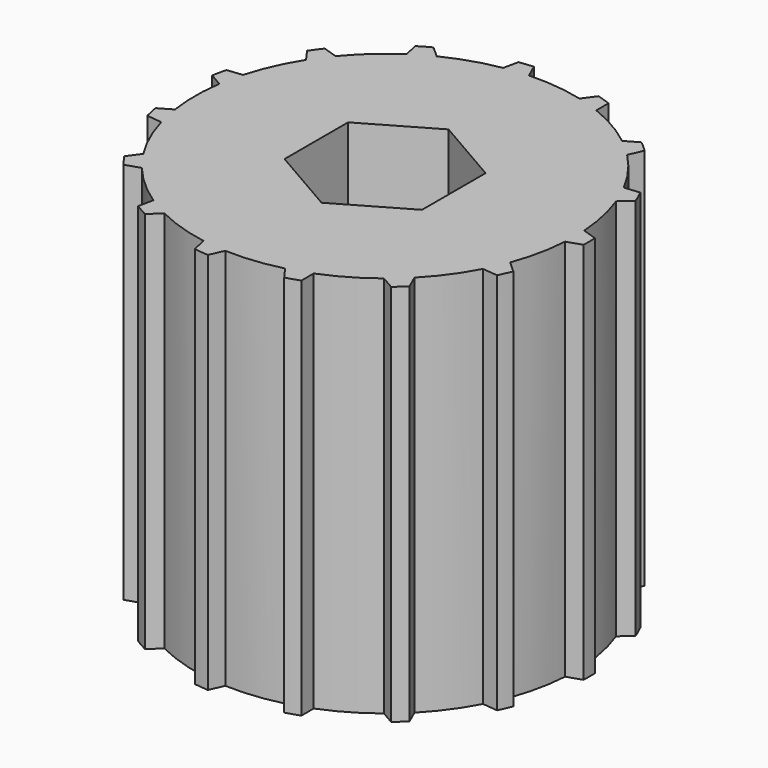
from build123d import *

# Parameters (mm, degrees)
SKETCH008_R           = 39.75
PAD007_DEPTH          = 80.15
PAD008_DEPTH          = 80.15
POLARPATTERN005_COUNT = 15
POCKET008_DEPTH       = 80.151


with BuildPart() as part:
    # Sketch008 → Pad007 (new body)
    with BuildSketch(Plane.XY):
        Circle(SKETCH008_R)
    extrude(amount=PAD007_DEPTH)

    # Sketch006 → Pad008 (join)
    with BuildSketch(Plane.XY):
        with BuildLine():
            ThreePointArc((42.723676, -1.5), (42.75, 0), (42.723676, 1.5))
            Line((39.671306, 2.5), (42.723676, 1.5))
            Line((39.671306, 2.5), (26.5, 0))
            Line((26.5, 0), (39.671306, -2.5))
            Line((39.671306, -2.5), (42.723676, -1.5))
        make_face()
    pad008 = extrude(amount=PAD008_DEPTH)

    # PolarPattern005: Pad008 ×15 about axis
    polarpattern005_axis = Axis((0, 0, 0), (0, 0, 1))
    for i in range(1, POLARPATTERN005_COUNT):
        add(pad008.rotate(polarpattern005_axis, i * 360 / POLARPATTERN005_COUNT))

    # Sketch007 → Pocket008 (cut, through all)
    with BuildSketch(Plane.XY):
        Polygon((14.3875, 8.306627), (0, 16.613254), (-14.3875, 8.306627), (-14.3875, -8.306627), (0, -16.613254), (14.3875, -8.306627), align=None)
    extrude(amount=POCKET008_DEPTH, mode=Mode.SUBTRACT)


with BuildPart() as part_1:
    # Body011 placement: moved
    add(part.part.moved(Location((50, 0, 0))))


solid = part_1.part
